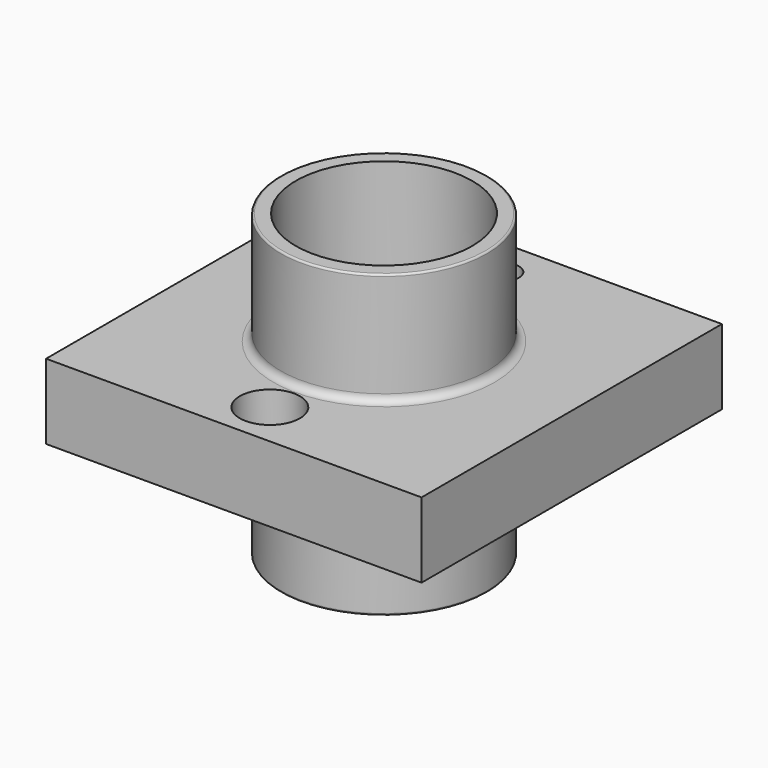
from build123d import *

# Parameters (mm, degrees)
F0_R      = 27.5
F2_DEPTH  = 40
F4_W      = 100
F4_H      = 100
F5_DEPTH  = 10
F3_R      = 20
F6_DEPTH  = 40.001
F1_R      = 23.5
F7_DEPTH  = 40.001
F10_R     = 2
F11_R     = 0.5
F8_R      = 8
F9_R      = 4
F12_DEPTH = 15


with BuildPart() as f2:
    # F0 (on Top) → F2 (new body, symmetric)
    with BuildSketch(Plane.XY):
        Circle(F0_R)
    extrude(amount=F2_DEPTH, both=True)

    # F4 (on Top) → F5 (join, symmetric)
    with BuildSketch(Plane.XY):
        Rectangle(F4_W, F4_H)
    extrude(amount=F5_DEPTH, both=True)

    # F3 (on Top) → F6 (cut, through all)
    with BuildSketch(Plane.XY):
        Circle(F3_R)
    extrude(amount=-F6_DEPTH, mode=Mode.SUBTRACT)

    # F1 (on Top) → F7 (cut, through all)
    with BuildSketch(Plane.XY):
        Circle(F1_R)
    extrude(amount=F7_DEPTH, mode=Mode.SUBTRACT)

    # F10
    f10_edges = [f2.edges().sort_by_distance(p)[0] for p in [
        (-27.5, 0, 10),
        (-27.5, 0, -10),
    ]]
    fillet(f10_edges, radius=F10_R)

    # F11
    f11_edges = [f2.edges().sort_by_distance(p)[0] for p in [
        (-27.5, 0, -40),
        (-27.5, 0, 40),
    ]]
    fillet(f11_edges, radius=F11_R)

    # F8 (on Top) + F9 (on Top) → F12 (cut, symmetric)
    with BuildSketch(Plane.XY):
        with Locations((0, -38)):
            Circle(F8_R)
    with BuildSketch(Plane.XY):
        with Locations((0, 40)):
            Circle(F9_R)
    extrude(amount=F12_DEPTH, both=True, mode=Mode.SUBTRACT)


solid = f2.part
